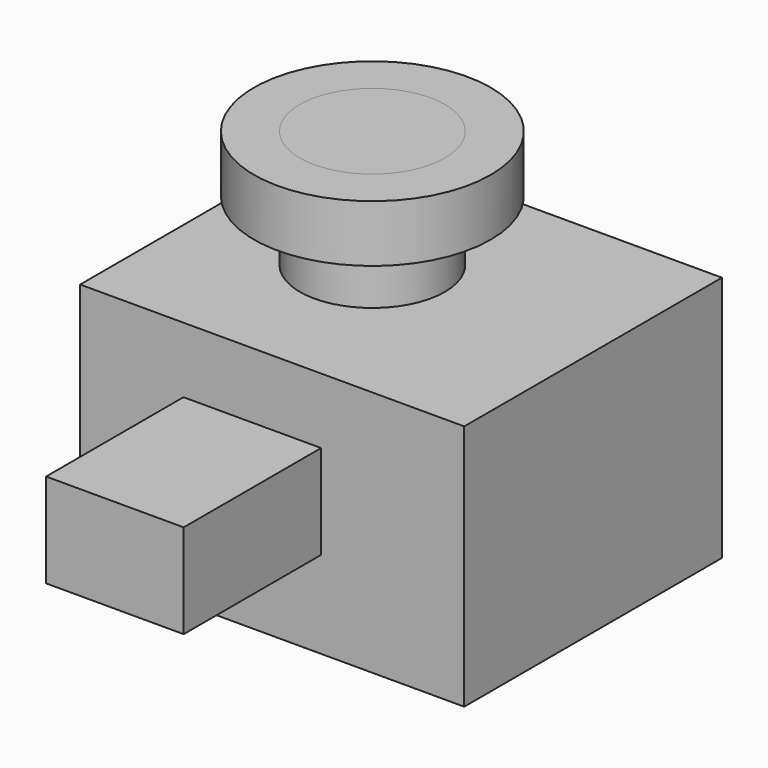
from build123d import *

# Parameters (mm, degrees)
F1_DEPTH = 135
F2_W     = 57.671525
F2_H     = 39.425988
F3_DEPTH = 72
F4_R     = 30.400853
F5_DEPTH = 49.4
F6_R     = 49.595706
F6_R_2   = 30.400853
F7_DEPTH = 23.9


with BuildPart() as f1:
    # F0 (on Front) → F1 (new body)
    with BuildSketch(Plane.XZ):
        Polygon((59.986742, 66.914834), (-100.985013, 66.914834), (-100.985013, -36.521275), (59.986742, -36.521275), (59.986742, 15.19678), align=None)
    extrude(amount=F1_DEPTH)


with BuildPart() as f3:
    # F2 (on face) → F3 (new body)
    with BuildSketch(Plane.XZ.offset(135)):
        with Locations((-28.835762, 19.712994)):
            Rectangle(F2_W, F2_H)
    extrude(amount=F3_DEPTH)


with BuildPart() as f5:
    # F4 (on face) → F5 (new body)
    with BuildSketch(Plane.XY.offset(66.914834)):
        with Locations((-34.902398, -64.526096)):
            Circle(F4_R)
    extrude(amount=F5_DEPTH)


with BuildPart() as f7:
    # F6 (on face) → F7 (new body)
    with BuildSketch(Plane.XY.offset(116.314834)):
        with Locations((-34.902398, -64.526096)):
            Circle(F6_R)
        with Locations((-34.902398, -64.526096)):
            Circle(F6_R_2, mode=Mode.SUBTRACT)
    extrude(amount=-F7_DEPTH)


solid = Compound([f1.part, f3.part, f5.part, f7.part])
